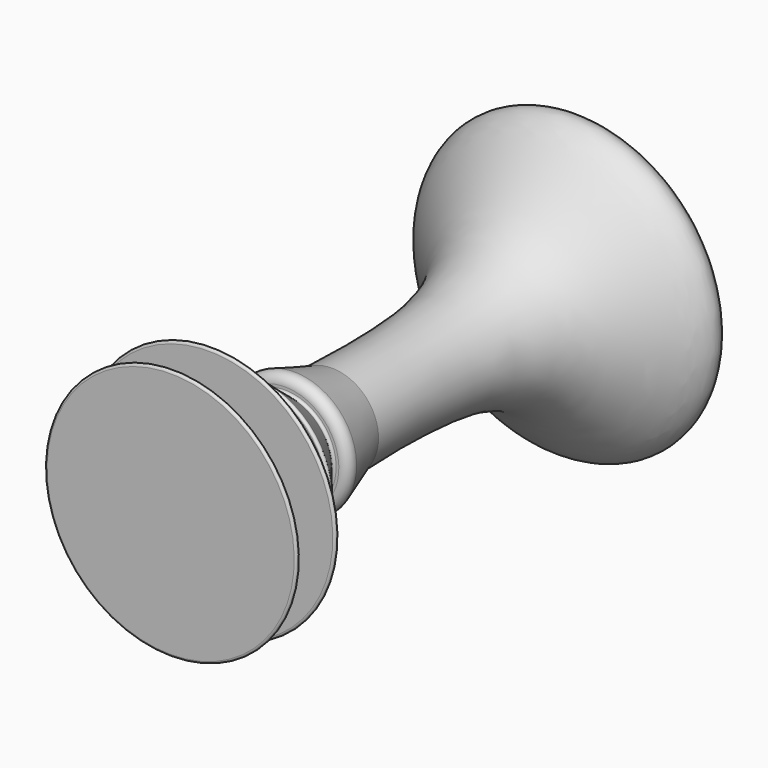
from build123d import *

# Parameters (mm, degrees)
F2_R = 5.08
F3_R = 1.27


with BuildPart() as f1:
    # F0 (on Right) → F1 (revolve)
    with BuildSketch(Plane.YZ):
        with BuildLine():
            Line((0, 26.6038626432), (0, 0))
            Line((0, 0), (0, -48.9209443331))
            Line((0, -48.9209443331), (27.1826013923, 0))
            Line((27.1826013923, 0), (27.1826013923, -48.9209443331))
            Line((27.1826013923, -48.9209443331), (56.6272884607, 0))
            Line((56.6272884607, 0), (56.6272884607, -20.4998292029))
            Line((56.6272884607, -20.4998292029), (81.641100347, 0))
            Line((81.641100347, 0), (81.641100347, -11.2897567451))
            Line((81.641100347, -11.2897567451), (115.321405232, 0))
            add(Edge.make_bspline(
                [(115.321405232, 0), (132.5075592279, 0.4699568487), (169.6922097827, 1.4867795138), (242.46305069, -6.8011539818), (291.7529486815, -91.1497646218), (308.7193216282, -15.3673445231), (318.1159496307, 26.6038626432)],
                knots=[0, 0, 0, 0, 0.2215911861, 0.4794435466, 0.7116956163, 1, 1, 1, 1], degree=3))
            Line((318.1159496307, 26.6038626432), (0, 26.6038626432))
        make_face()
    revolve(axis=Axis((0, 159.0579748154, 26.6038626432), (0, 1, 0)))

    # F2
    f2_edges = [f1.edges().sort_by_distance(p)[0] for p in [
        (0, 81.6411, 64.497482),
    ]]
    fillet(f2_edges, radius=F2_R)

    # F3
    f3_edges = [f1.edges().sort_by_distance(p)[0] for p in [
        (0, 81.6411, 53.207725),
        (0, 56.627288, 73.707554),
        (0, 56.627288, 53.207725),
        (0, 27.182601, 102.12867),
        (0, 27.182601, 53.207725),
        (0, 0, 102.12867),
    ]]
    fillet(f3_edges, radius=F3_R)


solid = f1.part
